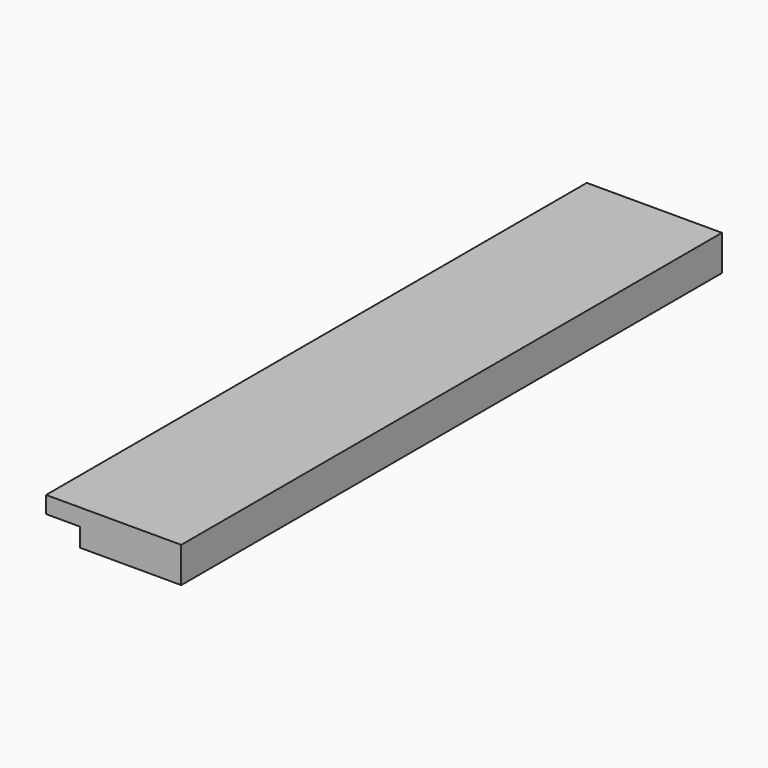
from build123d import *

# Parameters (mm, degrees)
F1_DEPTH = 20


with BuildPart() as f1:
    # F0 (on Front) → F1 (new body, symmetric)
    with BuildSketch(Plane.XZ):
        Polygon((3.5, 0), (3.5, 2.1), (-4.5, 2.1), (-4.5, 1.1), (-2.5, 1.1), (-2.5, 0), (0, 0), align=None)
        Polygon((3.5, 0), (3.5, 2.1), (-4.5, 2.1), (-4.5, 1.1), (-2.5, 1.1), (-2.5, 0), (0, 0), align=None)
    extrude(amount=F1_DEPTH, both=True)


solid = f1.part
